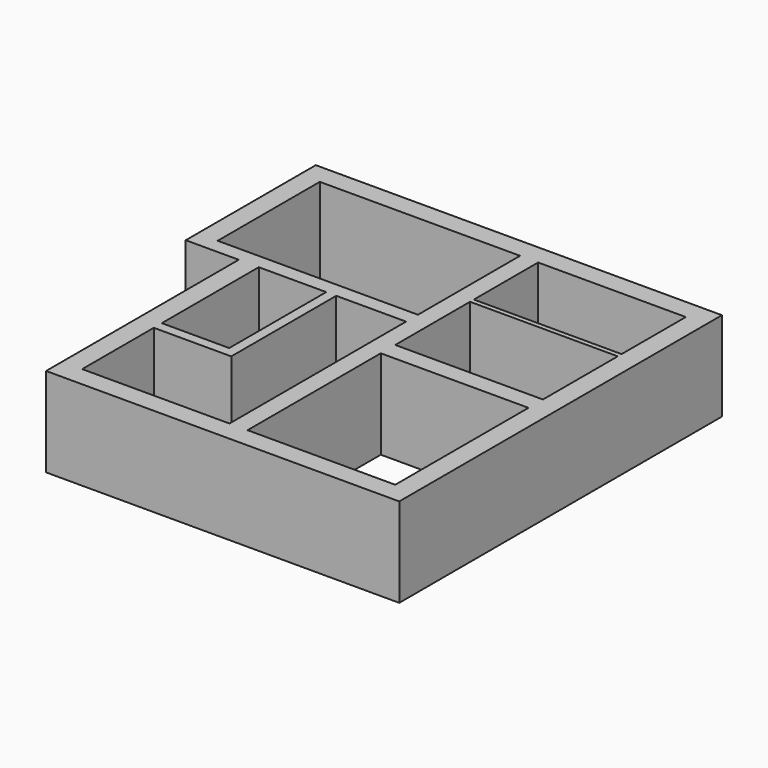
from build123d import *

# Parameters (mm, degrees)
F0_W     = 1680
F0_H     = 3020
F0_W_2   = 3680
F0_H_2   = 4150
F0_W_3   = 4990
F0_H_3   = 3180
F0_H_4   = 2330
F0_H_5   = 2000
F1_DEPTH = 2225


with BuildPart() as f1:
    # F0 (on Top) → F1 (new body)
    with BuildSketch(Plane.XY):
        Polygon((-6317.15601, -3488.657475), (-6317.15601, -9488.657475), (2482.84399, -9488.657475), (2482.84399, 561.342525), (-7637.15601, 561.342525), (-7637.15601, -3488.657475), align=None)
        Polygon((-2147.15601, -8988.657475), (-5817.15601, -8988.657475), (-5817.15601, -6758.657475), (-3887.15601, -6758.657475), (-3887.15601, -3488.657475), (-2147.15601, -3488.657475), align=None, mode=Mode.SUBTRACT)
        with Locations((-4977.15601, -4998.657475)):
            Rectangle(F0_W, F0_H, mode=Mode.SUBTRACT)
        with Locations((142.84399, -6913.657475)):
            Rectangle(F0_W_2, F0_H_2, mode=Mode.SUBTRACT)
        with Locations((-4642.15601, -1528.657475)):
            Rectangle(F0_W_3, F0_H_3, mode=Mode.SUBTRACT)
        with Locations((142.84399, -3223.657475)):
            Rectangle(F0_W_2, F0_H_4, mode=Mode.SUBTRACT)
        with Locations((142.84399, -938.657475)):
            Rectangle(F0_W_2, F0_H_5, mode=Mode.SUBTRACT)
    extrude(amount=F1_DEPTH)


solid = f1.part
